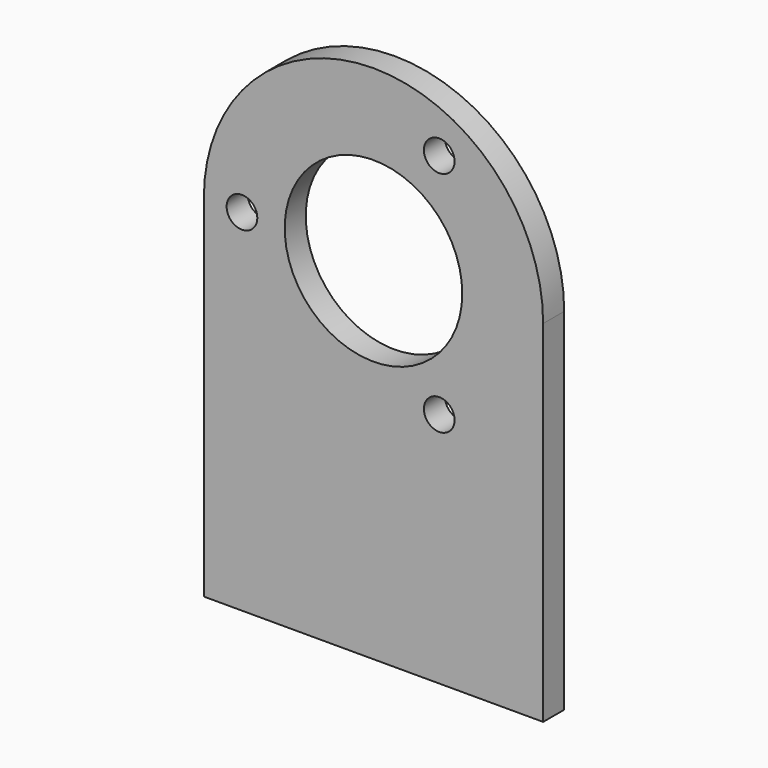
from build123d import *

# Parameters (mm, degrees)
SKETCH_R   = 10.125
SKETCH_R_2 = 1.75
PAD_DEPTH  = 3


with BuildPart() as part:
    # Sketch → Pad (new body)
    with BuildSketch(Plane.XZ):
        with BuildLine():
            ThreePointArc((19.35, -3e-06), (0, 19.35), (-19.35, -3e-06))
            Line((-19.35, -3e-06), (-19.35, -40.000003))
            Line((-19.35, -40.000003), (19.35, -40.000003))
            Line((19.35, -40.000003), (19.35, -3e-06))
        make_face()
        Circle(SKETCH_R, mode=Mode.SUBTRACT)
        with Locations((7.500003, 12.990379)):
            Circle(SKETCH_R_2, mode=Mode.SUBTRACT)
        with Locations((-15, 5e-06)):
            Circle(SKETCH_R_2, mode=Mode.SUBTRACT)
        with Locations((7.499994, -12.990384)):
            Circle(SKETCH_R_2, mode=Mode.SUBTRACT)
    extrude(amount=PAD_DEPTH)


solid = part.part
